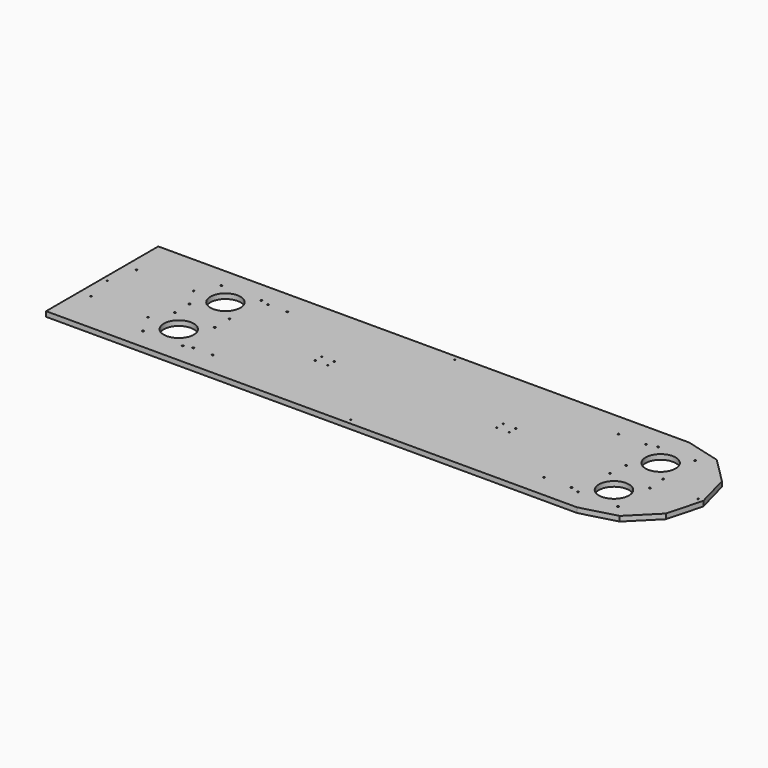
from build123d import *

# Parameters (mm, degrees)
F0_R     = 1.7272
F1_DEPTH = 12.7
F2_R     = 1.7272
F2_R_2   = 38.1
F2_R_3   = 2.15265
F3_DEPTH = 12.7
F4_R     = 1.7272
F4_R_2   = 2.15265
F5_DEPTH = 12.7
F6_R     = 3.96875
F7_DEPTH = 6.35


with BuildPart() as f1:
    # F0 (on Top) → F1 (new body)
    with BuildSketch(Plane.XY):
        Polygon((88.9, 153.979317), (0, 177.8), (-1346.2, 177.8), (-1346.2, -177.8), (0, -177.8), (88.9, -153.979317), (153.979317, -88.9), (177.8, 0), (153.979317, 88.9), align=None)
        with Locations((-1316.83125, -72.23125)):
            Circle(F0_R, mode=Mode.SUBTRACT)
        with Locations((-1172.36875, -72.23125)):
            Circle(F0_R, mode=Mode.SUBTRACT)
        with Locations((-1316.83125, 72.23125)):
            Circle(F0_R, mode=Mode.SUBTRACT)
        with Locations((-1172.36875, 72.23125)):
            Circle(F0_R, mode=Mode.SUBTRACT)
    extrude(amount=F1_DEPTH)

    # F2 (on face) → F3 (cut, through all)
    with BuildSketch(Plane.XY.offset(12.7)):
        with Locations((-1333.051993, 0)):
            Circle(F2_R)
        with Locations((-584.2, 164.651993)):
            Circle(F2_R)
        with Locations((-584.2, -164.651993)):
            Circle(F2_R)
        with Locations((164.651993, 0)):
            Circle(F2_R)
        with Locations((10.529821, 73.9775)):
            Circle(F2_R_2)
        with Locations((10.529821, -73.9775)):
            Circle(F2_R_2)
        with Locations((-1092.835, 73.9775)):
            Circle(F2_R_2)
        with Locations((-1092.835, -73.9775)):
            Circle(F2_R_2)
        with Locations((-40.096373, -124.603694)):
            Circle(F2_R_3)
        with Locations((61.156014, -124.603694)):
            Circle(F2_R_3)
        with Locations((61.156014, -23.351306)):
            Circle(F2_R_3)
        with Locations((-40.096373, -23.351306)):
            Circle(F2_R_3)
        with Locations((-36.435636, 23.351306)):
            Circle(F2_R_3)
        with Locations((-36.435636, 124.603694)):
            Circle(F2_R_3)
        with Locations((57.495278, 124.603694)):
            Circle(F2_R_3)
        with Locations((57.495278, 23.351306)):
            Circle(F2_R_3)
        with Locations((-1143.461194, -124.603694)):
            Circle(F2_R_3)
        with Locations((-1042.208806, -124.603694)):
            Circle(F2_R_3)
        with Locations((-1042.208806, -23.351306)):
            Circle(F2_R_3)
        with Locations((-1143.461194, -23.351306)):
            Circle(F2_R_3)
        with Locations((-1143.461194, 23.351306)):
            Circle(F2_R_3)
        with Locations((-1042.208806, 23.351306)):
            Circle(F2_R_3)
        with Locations((-1042.208806, 124.603694)):
            Circle(F2_R_3)
        with Locations((-1143.461194, 124.603694)):
            Circle(F2_R_3)
    extrude(amount=-F3_DEPTH, mode=Mode.SUBTRACT)

    # F4 (on face) → F5 (cut, through all)
    with BuildSketch(Plane.XY.offset(12.7)):
        with Locations((-305.590145, -10.31875)):
            Circle(F4_R)
        with Locations((-337.340145, -10.31875)):
            Circle(F4_R)
        with Locations((-337.340145, 10.31875)):
            Circle(F4_R)
        with Locations((-305.590145, 10.31875)):
            Circle(F4_R)
        with Locations((-765.965145, 10.31875)):
            Circle(F4_R)
        with Locations((-765.965145, -10.31875)):
            Circle(F4_R)
        with Locations((-797.715145, -10.31875)):
            Circle(F4_R)
        with Locations((-797.715145, 10.31875)):
            Circle(F4_R)
        with Locations((-61.860179, 118.36762)):
            Circle(F4_R_2)
        with Locations((-131.595397, 118.36762)):
            Circle(F4_R_2)
        with Locations((-131.595397, -118.36762)):
            Circle(F4_R_2)
        with Locations((-61.860179, -118.36762)):
            Circle(F4_R_2)
        with Locations((-1020.445, -118.367619)):
            Circle(F4_R_2)
        with Locations((-971.709893, -118.367619)):
            Circle(F4_R_2)
        with Locations((-1020.445, 118.36762)):
            Circle(F4_R_2)
        with Locations((-971.709893, 118.36762)):
            Circle(F4_R_2)
    extrude(amount=-F5_DEPTH, mode=Mode.SUBTRACT)

    # F6 (on face) → F7 (cut)
    with BuildSketch(Plane(origin=(0, 0, 0), x_dir=(1, 0, 0), z_dir=(0, 0, -1))):
        with Locations((-797.715145, -10.31875)):
            Circle(F6_R)
        with Locations((-765.965145, -10.31875)):
            Circle(F6_R)
        with Locations((-765.965145, 10.31875)):
            Circle(F6_R)
        with Locations((-797.715145, 10.31875)):
            Circle(F6_R)
        with Locations((-305.590145, -10.31875)):
            Circle(F6_R)
        with Locations((-305.590145, 10.31875)):
            Circle(F6_R)
        with Locations((-337.340145, 10.31875)):
            Circle(F6_R)
        with Locations((-337.340145, -10.31875)):
            Circle(F6_R)
    extrude(amount=-F7_DEPTH, mode=Mode.SUBTRACT)


solid = f1.part
